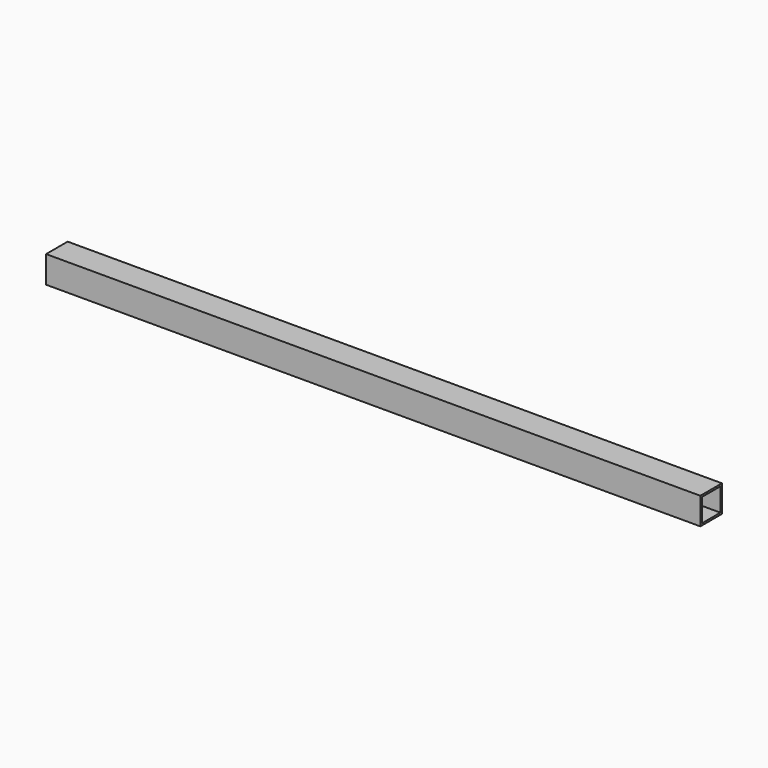
from build123d import *

# Parameters (mm, degrees)
SKETCH024_W     = 1423.8
SKETCH024_H     = 38.1
PAD012_DEPTH    = 38.1
SKETCH025_W     = 32.7
SKETCH025_H     = 32.7
POCKET009_DEPTH = 1423.801
SKETCH030_W     = 499.970518
SKETCH030_H     = 38.1
POCKET011_DEPTH = 38.101


with BuildPart() as part:
    # Sketch024 (on Face1 of Binder005) → Pad012 (new body)
    with BuildSketch(Plane.XZ.offset(38.1)):
        with Locations((750, 1038.1)):
            Rectangle(SKETCH024_W, SKETCH024_H)
    extrude(amount=-PAD012_DEPTH)

    # Sketch025 (on Face1 of Pad012) → Pocket009 (cut, through all)
    with BuildSketch(Plane.YZ.offset(1461.9)):
        with Locations((-19.05, 1038.1)):
            Rectangle(SKETCH025_W, SKETCH025_H)
    extrude(amount=-POCKET009_DEPTH, mode=Mode.SUBTRACT)

    # Sketch030 (on Face3 of Pocket009) → Pocket011 (cut, through all)
    with BuildSketch(Plane.XZ.offset(38.1)):
        with Locations((288.085259, 1038.1)):
            Rectangle(SKETCH030_W, SKETCH030_H)
    extrude(amount=-POCKET011_DEPTH, mode=Mode.SUBTRACT)


with BuildPart() as part_1:
    # Body012 placement: moved
    add(part.part.moved(Location((0, 1538.1, 0))))


solid = part_1.part
